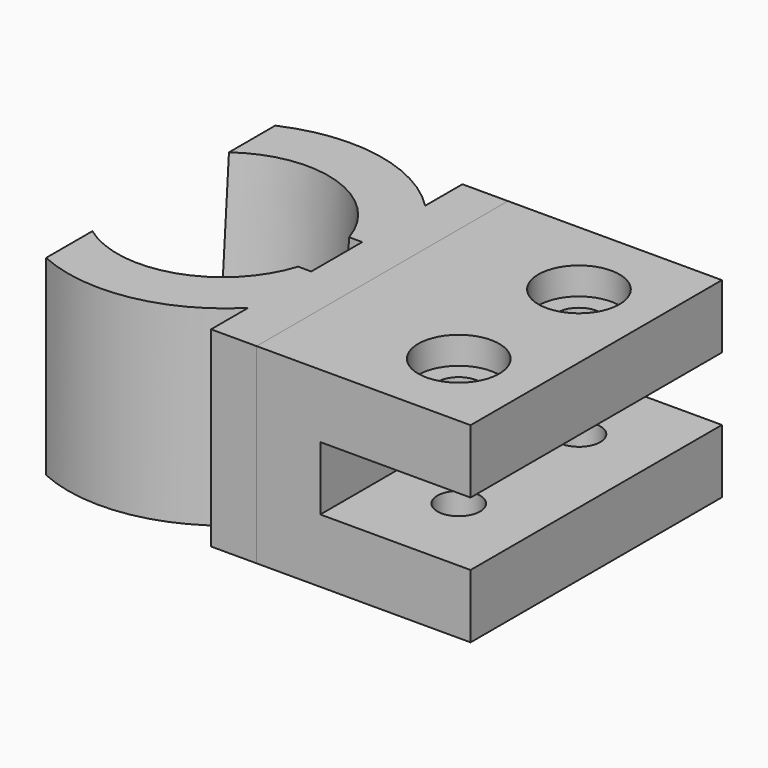
from build123d import *

# Parameters (mm, degrees)
PAD_DEPTH       = 17.25
SKETCH001_R     = 2.35
POCKET_DEPTH    = 21.001
POCKET001_DEPTH = 3.9
SKETCH003_R     = 4.45
POCKET002_DEPTH = 3
SKETCH004_R     = 1.925
POCKET003_DEPTH = 23.501
POCKET004_DEPTH = 3
SKETCH006_R     = 1.925
POCKET005_DEPTH = 2
SKETCH012_R     = 1.9
PAD003_DEPTH    = 3.8
SKETCH007_W     = 34.5
SKETCH007_H     = 21
SKETCH007_R     = 1.925
PAD001_DEPTH    = 5
SKETCH008_R     = 1.925
POCKET006_DEPTH = 2
PAD002_DEPTH    = 21
SKETCH010_R     = 1.925
POCKET007_DEPTH = 2
SKETCH011_R     = 1.925
POCKET008_DEPTH = 24.335471


with BuildPart() as obj1:
    # Sketch → Pad (new body, symmetric)
    with BuildSketch(Plane.XZ):
        Polygon((0, 0), (23.5, 0), (23.5, 7), (7, 7), (7, 14), (23.5, 14), (23.5, 21), (0, 21), align=None)
    extrude(amount=PAD_DEPTH, both=True)

    # Sketch001 → Pocket (cut, through all)
    with BuildSketch(Plane(origin=(0, 0, 21), x_dir=(-1, 0, 0), z_dir=(0, 0, 1))):
        with Locations((-15, 8.25)):
            Circle(SKETCH001_R)
        with Locations((-15, -8.25)):
            Circle(SKETCH001_R)
    extrude(amount=-POCKET_DEPTH, mode=Mode.SUBTRACT)

    # Sketch002 → Pocket001 (cut)
    with BuildSketch(Plane(origin=(0, 0, 0), x_dir=(1, 0, 0), z_dir=(0, 0, -1))):
        Polygon((15, 12.75), (11.102886, 10.5), (11.102886, 6), (15, 3.75), (18.897114, 6), (18.897114, 10.5), align=None)
        Polygon((15, -3.75), (11.102886, -6), (11.102886, -10.5), (15, -12.75), (18.897114, -10.5), (18.897114, -6), align=None)
    extrude(amount=-POCKET001_DEPTH, mode=Mode.SUBTRACT)

    # Sketch003 → Pocket002 (cut)
    with BuildSketch(Plane(origin=(0, 0, 21), x_dir=(-1, 0, 0), z_dir=(0, 0, 1))):
        with Locations((-15, 8.25)):
            Circle(SKETCH003_R)
        with Locations((-15, -8.25)):
            Circle(SKETCH003_R)
    extrude(amount=-POCKET002_DEPTH, mode=Mode.SUBTRACT)

    # Sketch004 → Pocket003 (cut, through all)
    with BuildSketch(Plane(origin=(0, 0, 0), x_dir=(0, 0, -1), z_dir=(-1, 0, 0))):
        with Locations((-10.5, 0)):
            Circle(SKETCH004_R)
    extrude(amount=-POCKET003_DEPTH, mode=Mode.SUBTRACT)

    # Sketch005 → Pocket004 (cut)
    with BuildSketch(Plane(origin=(7, 0, 0), x_dir=(0, 0, 1), z_dir=(1, 0, 0))):
        Polygon((7, 2.020726), (7, -2.020726), (10.5, -4.041452), (14, -2.020726), (14, 2.020726), (10.5, 4.041452), align=None)
    extrude(amount=-POCKET004_DEPTH, mode=Mode.SUBTRACT)

    # Sketch006 → Pocket005 (cut)
    with BuildSketch(Plane(origin=(0, 0, 0), x_dir=(0, 0, -1), z_dir=(-1, 0, 0))):
        with Locations((-10.5, -8.5)):
            Circle(SKETCH006_R)
        with Locations((-10.5, 8.5)):
            Circle(SKETCH006_R)
    extrude(amount=-POCKET005_DEPTH, mode=Mode.SUBTRACT)


with BuildPart() as pernos_union:
    # Sketch012 → Pad003 (new body)
    with BuildSketch(Plane(origin=(0, -10, 0), x_dir=(1, 0, 0), z_dir=(0, 0, 1))):
        with Locations((0, 42.256969)):
            Circle(SKETCH012_R)
    extrude(amount=PAD003_DEPTH)


with BuildPart() as cono:
    # Cone → Cone (revolve)
    with BuildSketch(Plane(origin=(-17.5, 0, 0), x_dir=(1, 0, 0), z_dir=(0, -1, 0))):
        Polygon((0, 0), (10.415, 0), (11.6, 21), (0, 21), align=None)
    revolve(axis=Axis((-17.5, 0, 0), (0, 0, 1)))


with BuildPart() as obj2:
    # Sketch007 → Pad001 (new body)
    with BuildSketch(Plane.YZ):
        with Locations((0, 10.5)):
            Rectangle(SKETCH007_W, SKETCH007_H)
        with Locations((0, 10.5)):
            Circle(SKETCH007_R, mode=Mode.SUBTRACT)
    extrude(amount=-PAD001_DEPTH)

    # Sketch008 → Pocket006 (cut)
    with BuildSketch(Plane.YZ):
        with Locations((-8.5, 10.5)):
            Circle(SKETCH008_R)
        with Locations((8.5, 10.5)):
            Circle(SKETCH008_R)
    extrude(amount=-POCKET006_DEPTH, mode=Mode.SUBTRACT)

    # Sketch009 → Pad002 (new body)
    with BuildSketch(Plane(origin=(0, 0, 21), x_dir=(0, -1, 0), z_dir=(0, 0, 1))):
        with BuildLine():
            ThreePointArc((15.728159, -24.334314), (-8.6e-05, 0), (-15.728089, -24.334471))
            Line((-7.75, -24.334314), (-15.728089, -24.334471))
            ThreePointArc((-3.5, -7.350505), (-10.185925, -14.701091), (-7.75, -24.334314))
            Line((-3.5, -4), (-3.5, -7.350505))
            Line((3.5, -4), (-3.5, -4))
            Line((3.5, -7.350505), (3.5, -4))
            ThreePointArc((7.75, -24.334314), (10.185925, -14.701091), (3.5, -7.350505))
            Line((7.75, -24.334314), (15.728159, -24.334314))
        make_face()
    extrude(amount=-PAD002_DEPTH)

    # Sketch010 → Pocket007 (cut)
    with BuildSketch(Plane.YZ):
        with Locations((-8.5, 10.5)):
            Circle(SKETCH010_R)
        with Locations((8.5, 10.5)):
            Circle(SKETCH010_R)
    extrude(amount=-POCKET007_DEPTH, mode=Mode.SUBTRACT)

    # Sketch011 → Pocket008 (cut, through all)
    with BuildSketch(Plane.YZ):
        with Locations((0, 10.5)):
            Circle(SKETCH011_R)
    extrude(amount=-POCKET008_DEPTH, mode=Mode.SUBTRACT)

    # Cut: cut Cono
    add(cono.part, mode=Mode.SUBTRACT)


solid = Compound([obj1.part, pernos_union.part, obj2.part])
